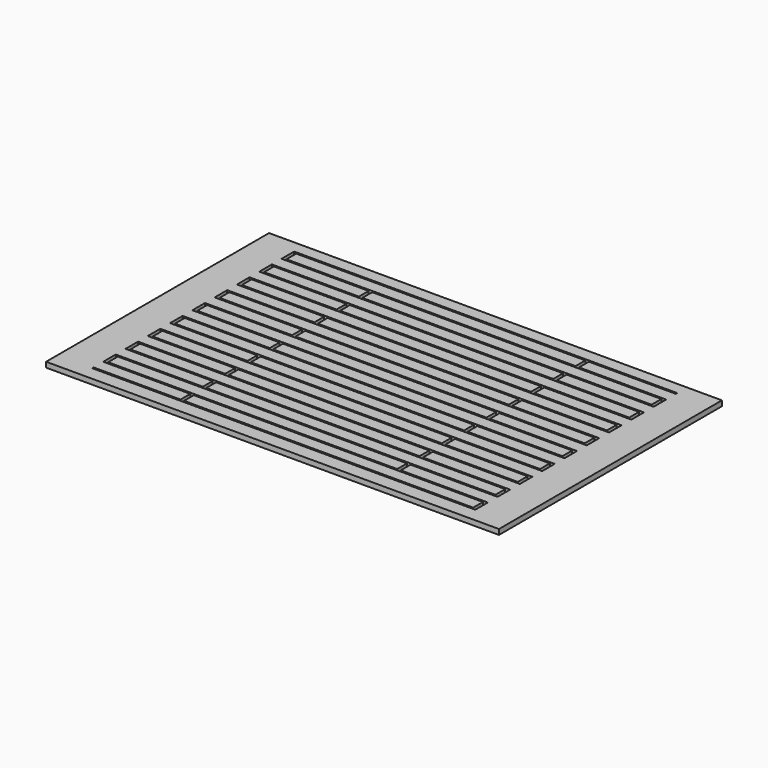
from build123d import *

# Parameters (mm, degrees)
F0_W     = 130
F0_H     = 80
F0_W_2   = 110
F0_H_2   = 0.5
F1_DEPTH = 1.5
F2_W     = 1
F2_H     = 4.5
F3_DEPTH = 1.2
F4_W     = 1
F4_H     = 3.5
F4_H_2   = 4
F5_DEPTH = 1.2
F6_W     = 1
F6_H     = 3.5
F7_DEPTH = 1.2


with BuildPart() as f1:
    # F0 (on Top) → F1 (new body)
    with BuildSketch(Plane.XY):
        Rectangle(F0_W, F0_H)
        with Locations((0, -35.75)):
            Rectangle(F0_W_2, F0_H_2, mode=Mode.SUBTRACT)
        with Locations((0, -31.75)):
            Rectangle(F0_W_2, F0_H_2, mode=Mode.SUBTRACT)
        with Locations((0, -27.75)):
            Rectangle(F0_W_2, F0_H_2, mode=Mode.SUBTRACT)
        with Locations((0, -23.75)):
            Rectangle(F0_W_2, F0_H_2, mode=Mode.SUBTRACT)
        with Locations((0, -19.75)):
            Rectangle(F0_W_2, F0_H_2, mode=Mode.SUBTRACT)
        with Locations((0, -15.75)):
            Rectangle(F0_W_2, F0_H_2, mode=Mode.SUBTRACT)
        with Locations((0, -11.75)):
            Rectangle(F0_W_2, F0_H_2, mode=Mode.SUBTRACT)
        with Locations((0, -7.75)):
            Rectangle(F0_W_2, F0_H_2, mode=Mode.SUBTRACT)
        with Locations((0, -3.75)):
            Rectangle(F0_W_2, F0_H_2, mode=Mode.SUBTRACT)
        with Locations((0, 0.25)):
            Rectangle(F0_W_2, F0_H_2, mode=Mode.SUBTRACT)
        with Locations((0, 4.25)):
            Rectangle(F0_W_2, F0_H_2, mode=Mode.SUBTRACT)
        with Locations((0, 8.25)):
            Rectangle(F0_W_2, F0_H_2, mode=Mode.SUBTRACT)
        with Locations((0, 12.25)):
            Rectangle(F0_W_2, F0_H_2, mode=Mode.SUBTRACT)
        with Locations((0, 16.25)):
            Rectangle(F0_W_2, F0_H_2, mode=Mode.SUBTRACT)
        with Locations((0, 20.25)):
            Rectangle(F0_W_2, F0_H_2, mode=Mode.SUBTRACT)
        with Locations((0, 24.25)):
            Rectangle(F0_W_2, F0_H_2, mode=Mode.SUBTRACT)
        with Locations((0, 28.25)):
            Rectangle(F0_W_2, F0_H_2, mode=Mode.SUBTRACT)
        with Locations((0, 32.25)):
            Rectangle(F0_W_2, F0_H_2, mode=Mode.SUBTRACT)
        with Locations((0, 36.25)):
            Rectangle(F0_W_2, F0_H_2, mode=Mode.SUBTRACT)
    extrude(amount=F1_DEPTH)

    # F2 (on face) → F3 (cut)
    with BuildSketch(Plane.XY.offset(1.5)):
        with Locations((-54.5, 34.25)):
            Rectangle(F2_W, F2_H)
        with Locations((54.5, 30.25)):
            Rectangle(F2_W, F2_H)
        with Locations((54.5, 22.25)):
            Rectangle(F2_W, F2_H)
        with Locations((54.5, 14.25)):
            Rectangle(F2_W, F2_H)
        with Locations((54.5, 6.25)):
            Rectangle(F2_W, F2_H)
        with Locations((54.5, -1.75)):
            Rectangle(F2_W, F2_H)
        with Locations((54.5, -9.75)):
            Rectangle(F2_W, F2_H)
        with Locations((54.5, -17.75)):
            Rectangle(F2_W, F2_H)
        with Locations((54.5, -25.75)):
            Rectangle(F2_W, F2_H)
        with Locations((54.5, -33.75)):
            Rectangle(F2_W, F2_H)
        with Locations((-54.5, 26.25)):
            Rectangle(F2_W, F2_H)
        with Locations((-54.5, 18.25)):
            Rectangle(F2_W, F2_H)
        with Locations((-54.5, 10.25)):
            Rectangle(F2_W, F2_H)
        with Locations((-54.5, 2.25)):
            Rectangle(F2_W, F2_H)
        with Locations((-54.5, -5.75)):
            Rectangle(F2_W, F2_H)
        with Locations((-54.5, -13.75)):
            Rectangle(F2_W, F2_H)
        with Locations((-54.5, -21.75)):
            Rectangle(F2_W, F2_H)
        with Locations((-54.5, -29.75)):
            Rectangle(F2_W, F2_H)
    extrude(amount=-F3_DEPTH, mode=Mode.SUBTRACT)

    # F4 (on face) → F5 (cut)
    with BuildSketch(Plane.XY.offset(1.5)):
        with Locations((29.5, 34.25)):
            Rectangle(F4_W, F4_H)
        with Locations((-29.5, 30)):
            Rectangle(F4_W, F4_H_2)
        with Locations((-29.5, 22)):
            Rectangle(F4_W, F4_H_2)
        with Locations((29.5, 26.25)):
            Rectangle(F4_W, F4_H)
        with Locations((-29.5, 14)):
            Rectangle(F4_W, F4_H_2)
        with Locations((29.5, 18.25)):
            Rectangle(F4_W, F4_H)
        with Locations((-29.5, 6)):
            Rectangle(F4_W, F4_H_2)
        with Locations((29.5, 10.25)):
            Rectangle(F4_W, F4_H)
        with Locations((-29.5, -2)):
            Rectangle(F4_W, F4_H_2)
        with Locations((29.5, 2.25)):
            Rectangle(F4_W, F4_H)
        with Locations((-29.5, -10)):
            Rectangle(F4_W, F4_H_2)
        with Locations((29.5, -5.75)):
            Rectangle(F4_W, F4_H)
        with Locations((-29.5, -18)):
            Rectangle(F4_W, F4_H_2)
        with Locations((29.5, -13.75)):
            Rectangle(F4_W, F4_H)
        with Locations((-29.5, -26)):
            Rectangle(F4_W, F4_H_2)
        with Locations((29.5, -21.75)):
            Rectangle(F4_W, F4_H)
        with Locations((-29.5, -34)):
            Rectangle(F4_W, F4_H_2)
        with Locations((29.5, -29.75)):
            Rectangle(F4_W, F4_H)
    extrude(amount=-F5_DEPTH, mode=Mode.SUBTRACT)

    # F6 (on face) → F7 (cut)
    with BuildSketch(Plane(origin=(0, 0, 0), x_dir=(1, 0, 0), z_dir=(0, 0, -1))):
        with Locations((-10.5, 33.75)):
            Rectangle(F6_W, F6_H)
        with Locations((9.5, 29.75)):
            Rectangle(F6_W, F6_H)
        with Locations((-10.5, 25.75)):
            Rectangle(F6_W, F6_H)
        with Locations((9.5, 21.75)):
            Rectangle(F6_W, F6_H)
        with Locations((-10.5, 17.75)):
            Rectangle(F6_W, F6_H)
        with Locations((9.5, 13.75)):
            Rectangle(F6_W, F6_H)
        with Locations((-10.5, 9.75)):
            Rectangle(F6_W, F6_H)
        with Locations((9.5, 5.75)):
            Rectangle(F6_W, F6_H)
        with Locations((-10.5, 1.75)):
            Rectangle(F6_W, F6_H)
        with Locations((9.5, -2.25)):
            Rectangle(F6_W, F6_H)
        with Locations((-10.5, -6.25)):
            Rectangle(F6_W, F6_H)
        with Locations((9.5, -10.25)):
            Rectangle(F6_W, F6_H)
        with Locations((-10.5, -14.25)):
            Rectangle(F6_W, F6_H)
        with Locations((9.5, -18.25)):
            Rectangle(F6_W, F6_H)
        with Locations((-10.5, -22.25)):
            Rectangle(F6_W, F6_H)
        with Locations((9.5, -26.25)):
            Rectangle(F6_W, F6_H)
        with Locations((-10.5, -30.25)):
            Rectangle(F6_W, F6_H)
        with Locations((9.5, -34.25)):
            Rectangle(F6_W, F6_H)
    extrude(amount=-F7_DEPTH, mode=Mode.SUBTRACT)


solid = f1.part
